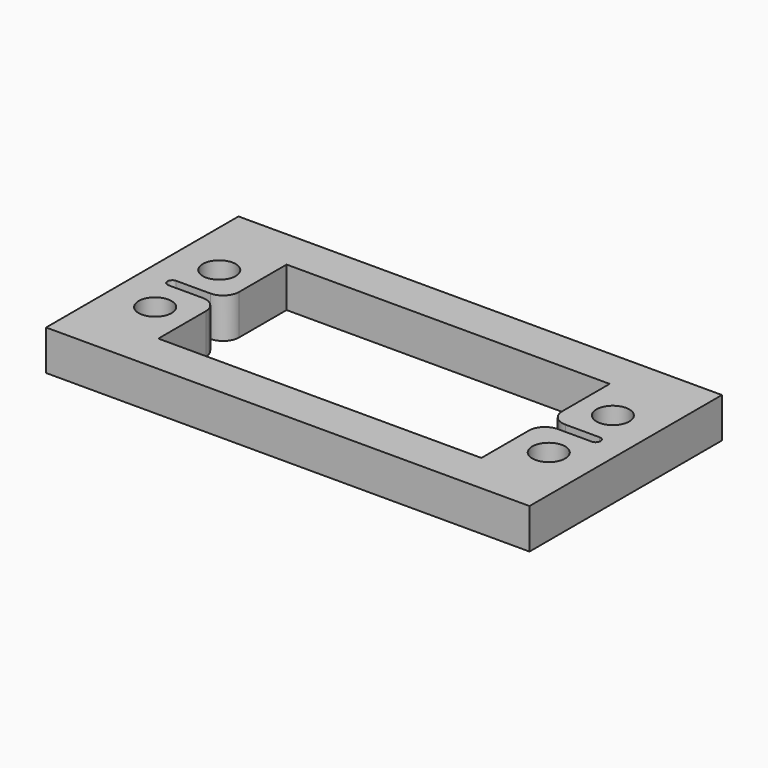
from build123d import *

# Parameters (mm, degrees)
F0_W     = 60.3
F0_H     = 30
F0_R     = 2.05
F1_DEPTH = 5


with BuildPart() as f1:
    # F0 (on Top) → F1 (new body)
    with BuildSketch(Plane.XY):
        Rectangle(F0_W, F0_H)
        with Locations((-24.55, -5)):
            Circle(F0_R, mode=Mode.SUBTRACT)
        with Locations((24.55, -5)):
            Circle(F0_R, mode=Mode.SUBTRACT)
        with Locations((-24.55, 5)):
            Circle(F0_R, mode=Mode.SUBTRACT)
        with BuildLine():
            Line((-20.15, 10), (0, 10))
            Line((0, 10), (20.15, 10))
            Line((20.15, 10), (20.15, 2.6))
            ThreePointArc((20.15, 2.6), (20.735786, 1.185786), (22.15, 0.6))
            Line((22.15, 0.6), (26.4, 0.6))
            ThreePointArc((26.4, 0.6), (26.824264, 0.424264), (27, 0))
            ThreePointArc((27, 0), (26.824264, -0.424264), (26.4, -0.6))
            Line((26.4, -0.6), (22.15, -0.6))
            ThreePointArc((22.15, -0.6), (20.735786, -1.185786), (20.15, -2.6))
            Line((20.15, -2.6), (20.15, -10))
            Line((20.15, -10), (0, -10))
            Line((0, -10), (-20.15, -10))
            Line((-20.15, -10), (-20.15, -2.6))
            ThreePointArc((-20.15, -2.6), (-20.735786, -1.185786), (-22.15, -0.6))
            Line((-22.15, -0.6), (-26.4, -0.6))
            ThreePointArc((-26.4, -0.6), (-26.824264, -0.424264), (-27, 0))
            ThreePointArc((-27, 0), (-26.824264, 0.424264), (-26.4, 0.6))
            Line((-26.4, 0.6), (-22.15, 0.6))
            ThreePointArc((-22.15, 0.6), (-20.735786, 1.185786), (-20.15, 2.6))
            Line((-20.15, 2.6), (-20.15, 10))
        make_face(mode=Mode.SUBTRACT)
        with Locations((24.55, 5)):
            Circle(F0_R, mode=Mode.SUBTRACT)
    extrude(amount=F1_DEPTH)


solid = f1.part
